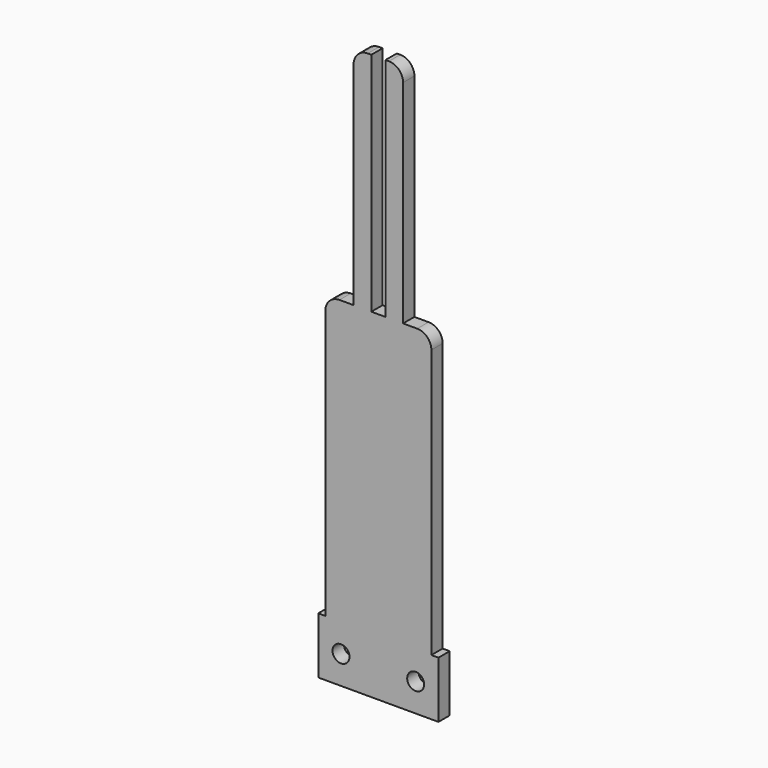
from build123d import *

# Parameters (mm, degrees)
F0_R     = 3.81
F1_DEPTH = 3.175


with BuildPart() as f1:
    # F0 (on Front) → F1 (new body, symmetric)
    with BuildSketch(Plane.XZ):
        with BuildLine():
            Line((26.9875, -12.7), (26.9875, 12.7))
            Line((26.9875, 12.7), (23.8125, 12.7))
            Line((23.8125, 12.7), (23.8125, 133.35))
            ThreePointArc((23.8125, 133.35), (21.952628, 137.840128), (17.4625, 139.7))
            Line((17.4625, 139.7), (11.1125, 139.7))
            Line((11.1125, 139.7), (11.1125, 234.95))
            ThreePointArc((11.1125, 234.95), (9.252628, 239.440128), (4.7625, 241.3))
            Line((4.7625, 241.3), (3.20871, 241.3))
            Line((3.20871, 241.3), (3.172577, 139.7))
            Line((3.172577, 139.7), (-3.14129, 139.7))
            Line((-3.14129, 139.7), (-3.14129, 241.3))
            Line((-3.14129, 241.3), (-4.7625, 241.3))
            ThreePointArc((-4.7625, 241.3), (-9.252628, 239.440128), (-11.1125, 234.95))
            Line((-11.1125, 234.95), (-11.1125, 139.7))
            Line((-11.1125, 139.7), (-17.4625, 139.7))
            ThreePointArc((-17.4625, 139.7), (-21.952628, 137.840128), (-23.8125, 133.35))
            Line((-23.8125, 133.35), (-23.8125, 12.7))
            Line((-23.8125, 12.7), (-26.9875, 12.7))
            Line((-26.9875, 12.7), (-26.9875, -12.7))
            Line((-26.9875, -12.7), (-3.175, -12.7))
            Line((-3.175, -12.7), (0, -12.7))
            Line((0, -12.7), (26.9875, -12.7))
        make_face()
        with Locations((-16.764, 0)):
            Circle(F0_R, mode=Mode.SUBTRACT)
        with Locations((16.764, 0)):
            Circle(F0_R, mode=Mode.SUBTRACT)
    extrude(amount=F1_DEPTH, both=True)


solid = f1.part
